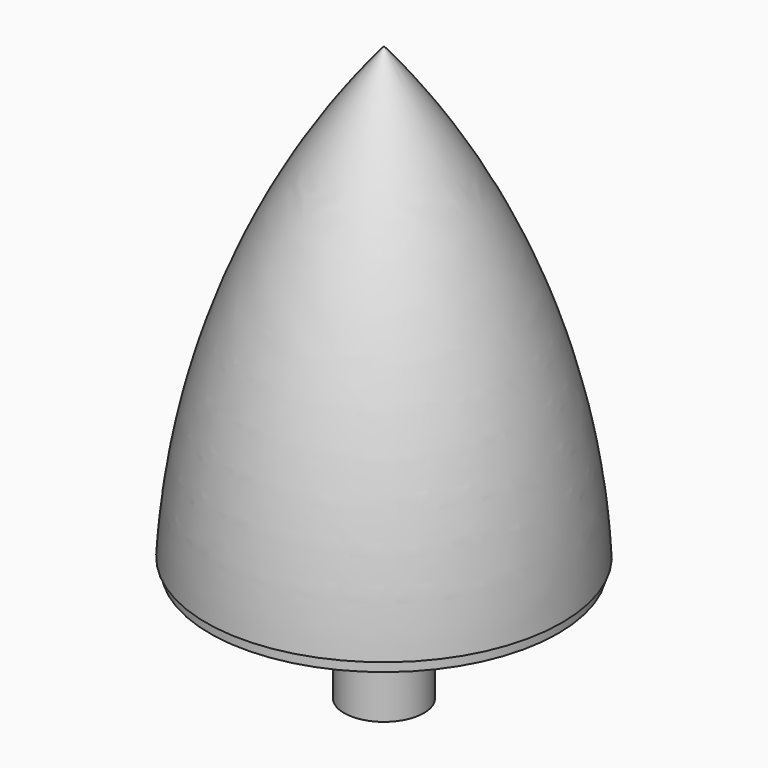
from build123d import *


with BuildPart() as f1:
    # F0 (on Front) → F1 (revolve)
    with BuildSketch(Plane.XZ):
        with BuildLine():
            Line((0, 50.8), (0, 0))
            Line((0, 0), (0, -12.7))
            Line((0, -12.7), (4.454116, -12.7))
            Line((4.454116, -12.7), (4.454116, 0))
            Line((4.454116, 0), (19.05, 0))
            Line((19.05, 0), (19.446875, 0))
            Line((19.446875, 0), (19.446875, 1.190625))
            Line((19.446875, 1.190625), (19.866529, 1.190625))
            ThreePointArc((19.866529, 1.190625), (14.029148, 27.92442), (0, 51.418117))
            Line((0, 51.418117), (0, 50.8))
        make_face()
    revolve(axis=Axis((0, 0, 25.4), (0, 0, 1)))


solid = f1.part
